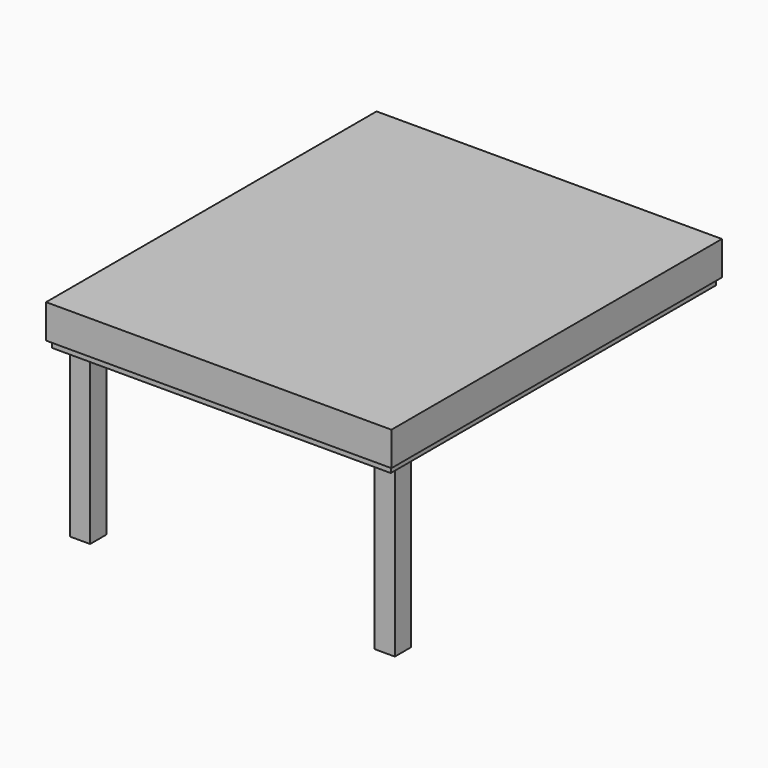
from build123d import *

# Parameters (mm, degrees)
F0_W     = 7.62
F0_H     = 7.62
F1_DEPTH = 63.5
F2_W     = 127
F2_H     = 152.4
F2_W_2   = 7.62
F2_H_2   = 7.62
F3_DEPTH = 12.7
F5_START = -2.54
F4_W     = 129.54
F4_H     = 154.94
F4_W_2   = 127
F4_H_2   = 152.4
F5_DEPTH = 12.7


with BuildPart() as f1:
    # F0 (on Top) → F1 (new body)
    with BuildSketch(Plane.XY):
        with Locations((-57.15, -62.5631865114)):
            Rectangle(F0_W, F0_H)
    extrude(amount=F1_DEPTH)


with BuildPart() as f1b:
    # F0 (on Top) → F1, piece 2 (new body)
    with BuildSketch(Plane.XY):
        with Locations((57.15, -62.5631865114)):
            Rectangle(F0_W, F0_H)
    extrude(amount=F1_DEPTH)


with BuildPart() as f3:
    # F2 (on face) → F3 (new body)
    with BuildSketch(Plane.XY.offset(63.5)):
        with Locations((0, 4.7468134886)):
            Rectangle(F2_W, F2_H)
        with Locations((-57.15, -62.5631865114)):
            Rectangle(F2_W_2, F2_H_2, mode=Mode.SUBTRACT)
        with Locations((-57.15, -62.5631865114)):
            Rectangle(F2_W_2, F2_H_2)
    extrude(amount=F3_DEPTH)

    # F4 (on face) → F5 (join)
    with BuildSketch(Plane(origin=(0, 0, 63.5), x_dir=(1, 0, 0), z_dir=(0, 0, -1)).offset(F5_START)):
        with Locations((0, -4.7468134886)):
            Rectangle(F4_W, F4_H)
        with Locations((0, -4.7468134886)):
            Rectangle(F4_W_2, F4_H_2, mode=Mode.SUBTRACT)
        with Locations((0, -4.7468134886)):
            Rectangle(F4_W_2, F4_H_2)
    extrude(amount=-F5_DEPTH)


solid = Compound([f1.part, f1b.part, f3.part])
